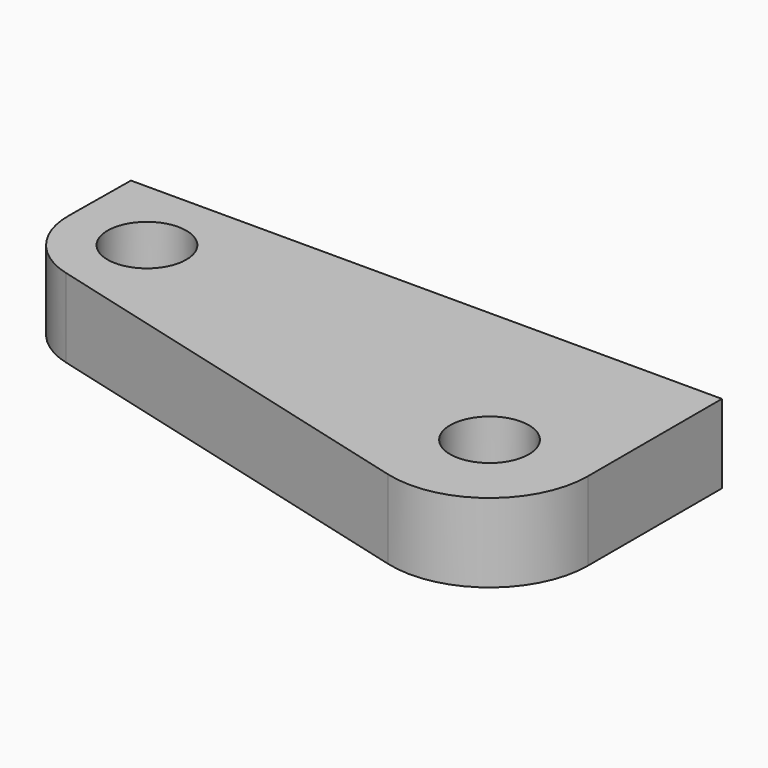
from build123d import *

# Parameters (mm, degrees)
F0_R     = 10
F1_DEPTH = 20


with BuildPart() as f1:
    # F0 (on Top) → F1 (new body)
    with BuildSketch(Plane.XY):
        with BuildLine():
            Line((0, -42.480337), (0, 0))
            Line((0, 0), (-150, 0))
            Line((-150, 0), (-150.209915, -19.451145))
            ThreePointArc((-150.209915, -19.451145), (-146.132664, -31.77082), (-135.352491, -38.994823))
            Line((-135.352491, -38.994823), (-31.426763, -66.640153))
            ThreePointArc((-31.426763, -66.640153), (-9.763023, -62.300391), (0, -42.480337))
        make_face()
        with Locations((-25, -42.480337)):
            Circle(F0_R, mode=Mode.SUBTRACT)
        with Locations((-130.21108, -19.666971)):
            Circle(F0_R, mode=Mode.SUBTRACT)
    extrude(amount=F1_DEPTH)


solid = f1.part
